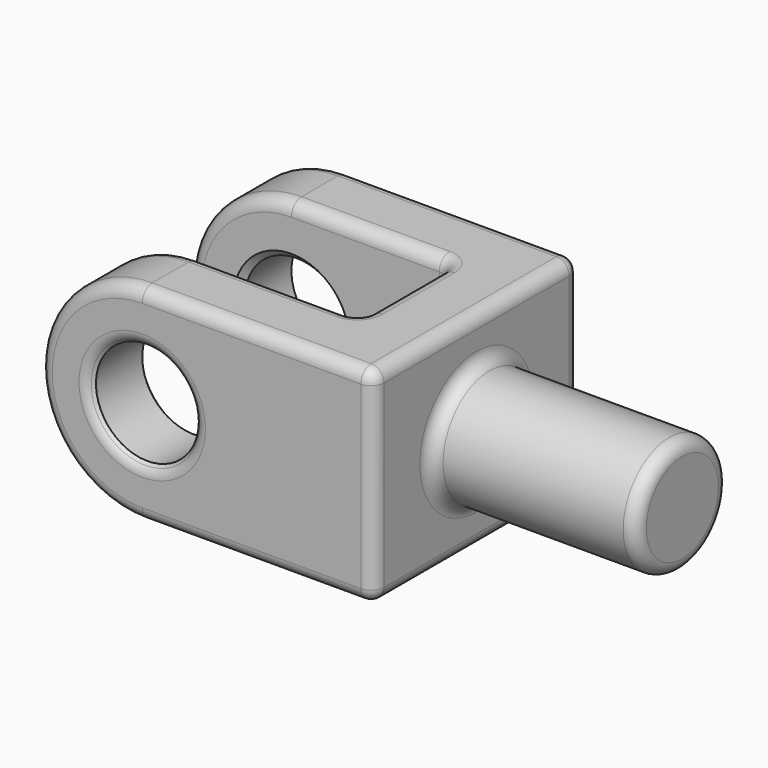
from build123d import *

# Parameters (mm, degrees)
F0_R     = 8
F1_DEPTH = 40
F2_W     = 25
F2_H     = 18
F2_W_2   = 16
F3_DEPTH = 32.001
F4_R     = 9
F5_DEPTH = 32
F6_SIZE2 = 1
F6_SIZE  = 1
F7_R     = 2


with BuildPart() as f1:
    # F0 (on Front) → F1 (new body)
    with BuildSketch(Plane.XZ):
        with BuildLine():
            Line((-36, 0), (0, 0))
            Line((0, 0), (0, 32))
            Line((0, 32), (-36, 32))
            ThreePointArc((-36, 32), (-52, 16), (-36, 0))
        make_face()
        with Locations((-36, 16)):
            Circle(F0_R, mode=Mode.SUBTRACT)
    extrude(amount=F1_DEPTH)

    # F2 (on face) → F3 (cut, through all)
    with BuildSketch(Plane.XY.offset(32)):
        with Locations((-23.5, -20)):
            Rectangle(F2_W, F2_H)
        with Locations((-44, -20)):
            Rectangle(F2_W_2, F2_H)
    extrude(amount=-F3_DEPTH, mode=Mode.SUBTRACT)

    # F4 (on face) → F5 (join)
    with BuildSketch(Plane.YZ):
        with Locations((-20, 16)):
            Circle(F4_R)
    extrude(amount=F5_DEPTH)

    # F6
    f6_edges = [f1.edges().sort_by_distance(p)[0] for p in [
        (-44, -40, 16),
        (-44, -29, 16),
        (-44, -11, 16),
        (-44, 0, 16),
    ]]
    chamfer(f6_edges, length=F6_SIZE, length2=F6_SIZE2)

    # F7
    f7_edges = [f1.edges().sort_by_distance(p)[0] for p in [
        (-18, 0, 32),
        (-36, -5.5, 32),
        (-23.5, -11, 32),
        (-11, -20, 32),
        (-23.5, -29, 32),
        (-36, -34.5, 32),
        (-18, -40, 32),
        (0, -20, 32),
        (-45, -40, 16),
        (-18, -40, 0),
        (0, -40, 16),
        (-52, -40, 16),
        (-45, 0, 16),
        (-18, 0, 0),
        (0, 0, 16),
        (-52, 0, 16),
        (0, -20, 0),
        (-36, -34.5, 0),
        (-23.5, -29, 0),
        (-11, -20, 0),
        (-23.5, -11, 0),
        (-36, -5.5, 0),
        (32, -29, 16),
        (0, -29, 16),
        (-11, -11, 16),
        (-11, -29, 16),
    ]]
    fillet(f7_edges, radius=F7_R)


solid = f1.part
